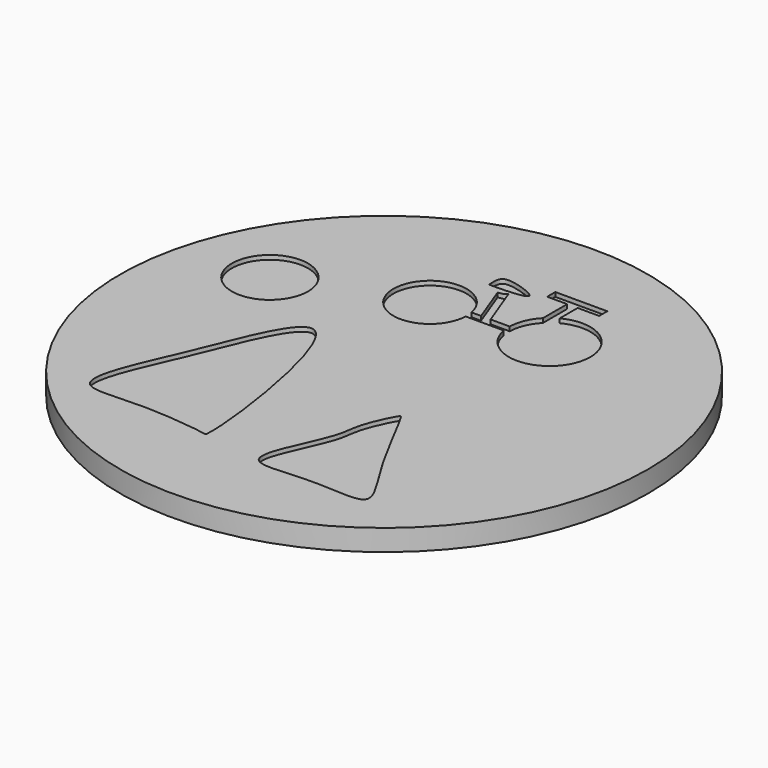
from build123d import *

# Parameters (mm, degrees)
F0_R     = 61.9623487285
F1_DEPTH = 5
F3_DEPTH = 1
F5_DEPTH = 1
F7_DEPTH = 1
F8_R     = 8.9292690279
F9_DEPTH = 1


with BuildPart() as f1:
    # F0 (on Top) → F1 (new body)
    with BuildSketch(Plane.XY):
        Circle(F0_R)
    extrude(amount=F1_DEPTH)

    # F2 (on face) → F3 (cut)
    with BuildSketch(Plane.XY.offset(5)):
        with BuildLine():
            add(Edge.make_bspline(
                [(-39.3048152328, -37.1991991997), (-37.7651793317, -39.3408560727), (-26.9602400655, -37.2654556836), (-10.6570598611, -39.5580218969), (-9.7558151733, -39.9834038407), (-10.152733857, -26.2704585367), (-19.5242322502, 19.941913429), (-32.5509442958, -15.6080702025), (-37.5478248801, -25.608945775), (-40.6668393278, -35.3046030406), (-39.3048152328, -37.1991991997)],
                knots=[0, 0, 0, 0, 0.1218310574, 0.2601288227, 0.2782546382, 0.4026452671, 0.600038467, 0.758741847, 0.8922233266, 1, 1, 1, 1], degree=3))
        make_face()
        with BuildLine():
            add(Edge.make_bspline(
                [(3.9304825477, -41.6911803186), (2.6669968583, -40.319533603), (5.0751476068, -33.5221923515), (9.5794311322, -24.2966191015), (9.3447152511, -19.2791505142), (12.9838675707, -11.8248757534), (13.8949803592, -11.8008514316), (22.5604208824, -30.2915392719), (33.3890041695, -44.2826186469), (16.6647932689, -41.1593642165), (5.5715073066, -43.4726854353), (3.9304825477, -41.6911803186)],
                knots=[0, 0, 0, 0, 0.1029925867, 0.2240288031, 0.3130595643, 0.4143515368, 0.4340651574, 0.6024353208, 0.7368916239, 0.8662324503, 1, 1, 1, 1], degree=3))
        make_face()
    extrude(amount=-F3_DEPTH, mode=Mode.SUBTRACT)

    # F4 (on face) → F5 (cut)
    with BuildSketch(Plane.XY.offset(5)):
        with BuildLine():
            ThreePointArc((-2.0797521838, 26.5244096723), (-2.0760909326, 26.6692016953), (-2.0748703999, 26.8140348579))
            ThreePointArc((-2.0748703999, 26.8140348579), (-2.1143389598, 27.636722854), (-2.2323821086, 28.451854206))
            ThreePointArc((-2.2323821086, 28.451854206), (-19.2357400979, 26.1356316973), (-2.0797521838, 26.5244096723))
        make_face()
        with BuildLine():
            Line((-3.4391672816, 37.6203209162), (0, 28.451854206))
            Line((0, 28.451854206), (2.246047079, 28.451854206))
            Line((2.246047079, 28.451854206), (-1.4739270555, 38.3221954107))
            add(Edge.make_bspline(
                [(-1.4739270555, 38.3221954107), (-2.2559350586, 37.6613035057), (-2.4543322401, 37.7411414291), (-3.4391672816, 37.6203209162)],
                knots=[0.8438158989, 0.8438158989, 0.8438158989, 0.8438158989, 1, 1, 1, 1], degree=3))
        make_face()
        with BuildLine():
            ThreePointArc((-2.2323821086, 28.451854206), (-2.1143389598, 27.636722854), (-2.0748703999, 26.8140348579))
            ThreePointArc((-2.0748703999, 26.8140348579), (-2.0760909326, 26.6692016953), (-2.0797521838, 26.5244096723))
            Line((-2.0797521838, 26.5244096723), (6.8719364839, 26.5244096723))
            ThreePointArc((6.8719364839, 26.5244096723), (6.7493739769, 27.4843959893), (6.7244762665, 28.451854206))
            Line((6.7244762665, 28.451854206), (2.246047079, 28.451854206))
            Line((2.246047079, 28.451854206), (0, 28.451854206))
            Line((0, 28.451854206), (-2.2323821086, 28.451854206))
        make_face()
        with BuildLine():
            ThreePointArc((6.7244762665, 28.451854206), (6.7493739769, 27.4843959893), (6.8719364839, 26.5244096723))
            ThreePointArc((6.8719364839, 26.5244096723), (17.1315070497, 18.6895333875), (25.8454203948, 28.2138070504))
            ThreePointArc((25.8454203948, 28.2138070504), (21.2407645456, 36.3903685526), (11.8616344407, 36.6919178299))
            ThreePointArc((11.8616344407, 36.6919178299), (10.5615812468, 35.8748115663), (9.4090827366, 34.8601450514))
            ThreePointArc((9.4090827366, 34.8601450514), (7.4641415218, 31.9084609883), (6.7244762665, 28.451854206))
        make_face()
        with BuildLine():
            Line((9.4090827366, 41.9719282496), (9.4090827366, 34.8601450514))
            ThreePointArc((9.4090827366, 34.8601450514), (10.5615812468, 35.8748115663), (11.8616344407, 36.6919178299))
            Line((11.8616344407, 36.6919178299), (11.8616344407, 41.9719282496))
            Line((11.8616344407, 41.9719282496), (9.4090827366, 41.9719282496))
        make_face()
        Polygon((4.7025452368, 41.9719282496), (9.4090827366, 41.9719282496), (11.8616344407, 41.9719282496), (16.9151108712, 41.9719282496), (16.9151108712, 44.3582907319), (4.7025452368, 44.3582907319), align=None)
    extrude(amount=-F5_DEPTH, mode=Mode.SUBTRACT)

    # F6 (on face) → F7 (cut)
    with BuildSketch(Plane.XY.offset(5)):
        with BuildLine():
            add(Edge.make_bspline(
                [(-3.9998693392, 42.5951331854), (-5.4840353013, 42.8094104058), (-6.9211765833, 42.301449495), (-6.6092198889, 39.1996054356), (-6.6457444296, 38.9778993961), (7.2077359478, 39.0874898007), (-1.686567761, 42.261149086), (-3.9998693392, 42.5951331854)],
                knots=[0, 0, 0, 0, 0.1794642893, 0.3539269519, 0.4002900929, 0.7202772235, 1, 1, 1, 1], degree=3))
        make_face()
    extrude(amount=-F7_DEPTH, mode=Mode.SUBTRACT)

    # F8 (on face) → F9 (cut)
    with BuildSketch(Plane.XY.offset(5)):
        with Locations((-39.7668331861, 16.2076167762)):
            Circle(F8_R)
    extrude(amount=-F9_DEPTH, mode=Mode.SUBTRACT)


solid = f1.part
